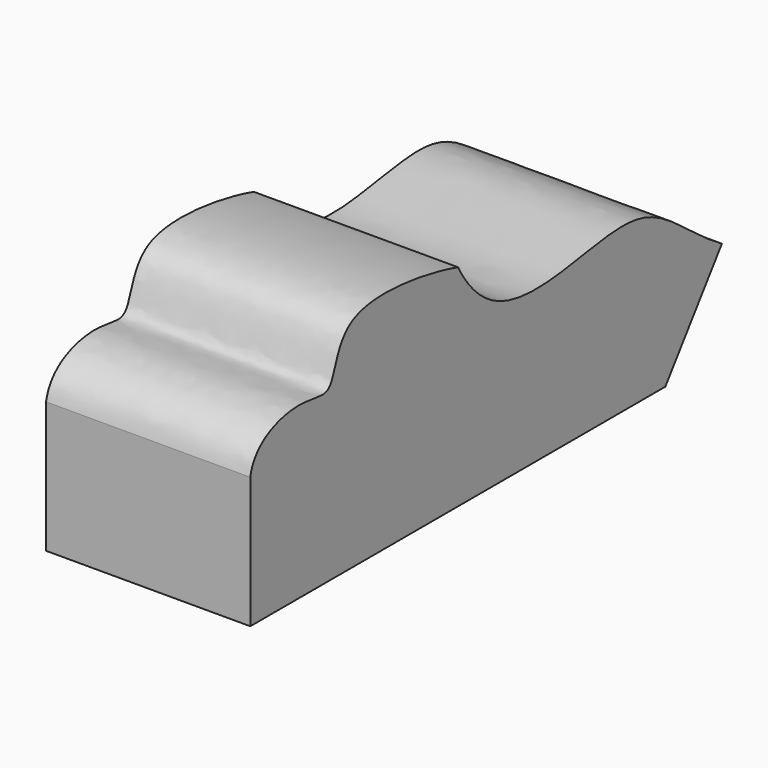
from build123d import *

# Parameters (mm, degrees)
F1_DEPTH = 43.3


with BuildPart() as f1:
    # F0 (on Right) → F1 (new body)
    with BuildSketch(Plane.YZ):
        with BuildLine():
            Line((0, 7.2182836728), (0, 0))
            Line((0, 0), (125, 0))
            add(Edge.make_bspline(
                [(125, 0), (115.1338994431, 5.8963246273), (104.0585223757, 21.4338908712), (69.2423172861, 5.164719419), (56.8214295159, 20.6559883184), (55.1038199734, 24.0065091075)],
                knots=[0, 0, 0, 0, 0.3276035342, 0.7121628735, 0.8163545873, 0.8163545873, 0.8163545873, 0.8163545873], degree=3))
            add(Edge.make_bspline(
                [(0, 7.2182836728), (1.1338959448, 13.4512456134), (13.234969515, 17.0071866985), (22.6670424005, 12.634455728), (22.6889416623, 31.7693302299), (50.8405557625, 25.4), (55.1038199734, 24.0065091075)],
                knots=[0, 0, 0, 0, 0.256974433, 0.4347214297, 0.6559001259, 1, 1, 1, 1], degree=3))
        make_face()
        Polygon((125, 0), (0, 0), (0, -20.6), (110, -20.6), align=None)
    extrude(amount=F1_DEPTH)


solid = f1.part
